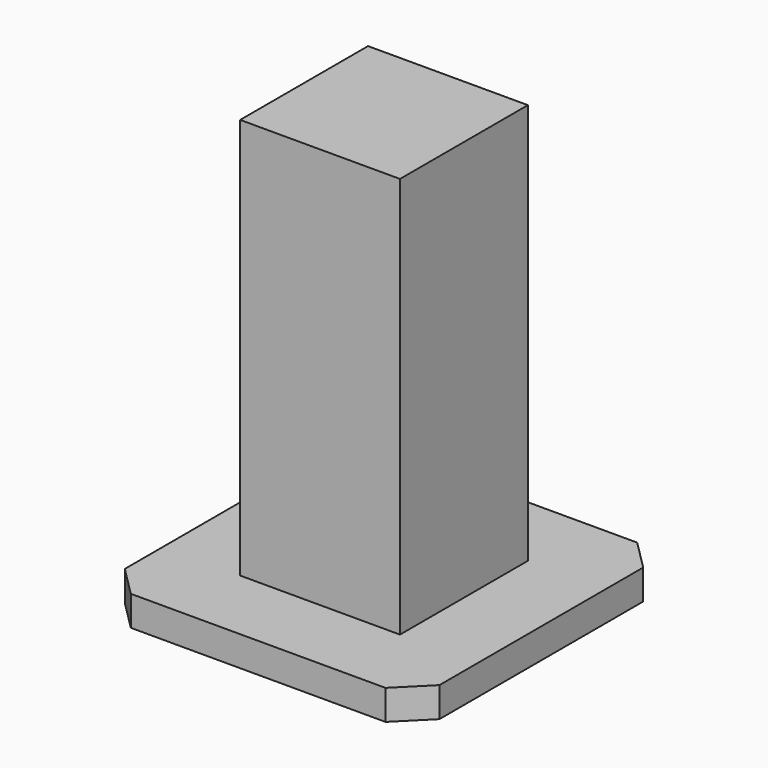
from build123d import *

# Parameters (mm, degrees)
F0_W     = 400
F0_H     = 400
F1_DEPTH = 38.1
F2_SIZE  = 38.1
F3_W     = 203.2
F3_H     = 203.2
F4_DEPTH = 510


with BuildPart() as f1:
    # F0 (on Top) → F1 (new body)
    with BuildSketch(Plane.XY):
        Rectangle(F0_W, F0_H)
    extrude(amount=F1_DEPTH)

    # F2
    f2_edges = [f1.edges().sort_by_distance(p)[0] for p in [
        (-200, 200, 19.05),
        (-200, -200, 19.05),
        (200, -200, 19.05),
        (200, 200, 19.05),
    ]]
    chamfer(f2_edges, length=F2_SIZE)

    # F3 (on face) → F4 (join)
    with BuildSketch(Plane.XY.offset(38.1)):
        Rectangle(F3_W, F3_H)
    extrude(amount=F4_DEPTH)


solid = f1.part
